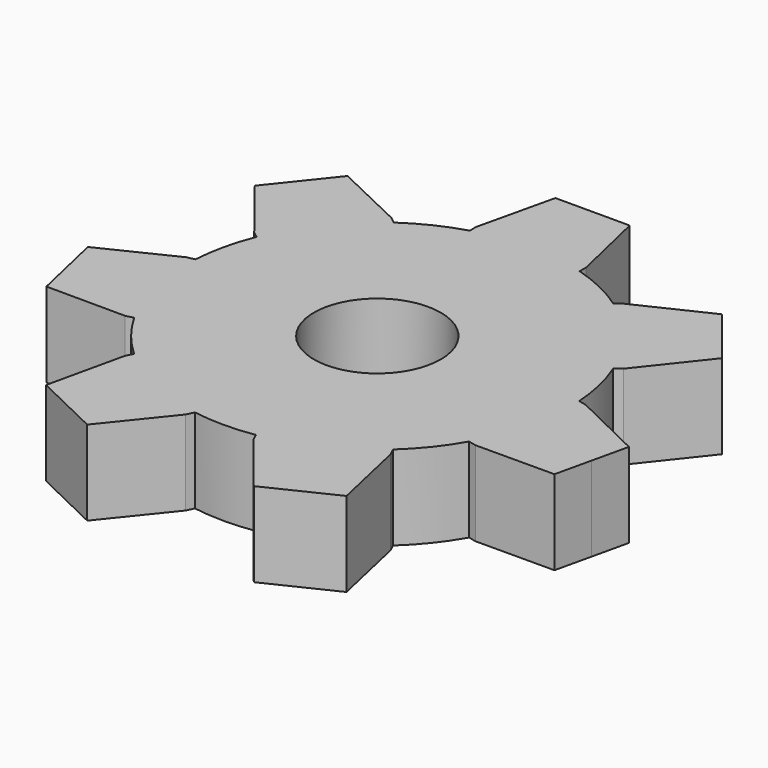
from build123d import *

# Parameters (mm, degrees)
F0_R     = 19.05
F1_DEPTH = 25.4


with BuildPart() as f1:
    # F0 (on Top) → F1 (new body)
    with BuildSketch(Plane.XY):
        with BuildLine():
            Line((-10.182837, -59.196547), (-9.157953, -57.02169))
            ThreePointArc((-9.157953, -57.02169), (-25.057833, -52.033126), (-38.871462, -42.712418))
            Line((-38.871462, -42.712418), (-39.932829, -44.869706))
            Line((-39.932829, -44.869706), (-45.115972, -67.966514))
            Line((-45.115972, -67.966514), (-35.062492, -72.808015))
            Line((-35.062492, -72.808015), (-25.009012, -77.649516))
            Line((-25.009012, -77.649516), (-10.182837, -59.196547))
        make_face()
        with BuildLine():
            Line((-52.630619, -28.947181), (-50.291243, -28.392466))
            ThreePointArc((-50.291243, -28.392466), (-56.30444, -12.851121), (-57.629873, 3.760176))
            Line((-57.629873, 3.760176), (-59.97826, 3.244939))
            Line((-59.97826, 3.244939), (-81.267709, -7.103341))
            Line((-81.267709, -7.103341), (-78.784705, -17.982095))
            Line((-78.784705, -17.982095), (-76.3017, -28.860849))
            Line((-76.3017, -28.860849), (-52.630619, -28.947181))
        make_face()
        with BuildLine():
            ThreePointArc((-53.554201, 21.616864), (-45.152655, 36.008041), (-32.991815, 47.401281))
            Line((-32.991815, 47.401281), (-34.858838, 48.916078))
            Line((-34.858838, 48.916078), (-56.223203, 59.108793))
            Line((-56.223203, 59.108793), (-63.180428, 50.38471))
            Line((-63.180428, 50.38471), (-70.137652, 41.660627))
            Line((-70.137652, 41.660627), (-55.446471, 23.100003))
            Line((-55.446471, 23.100003), (-53.554201, 21.616864))
        make_face()
        with BuildLine():
            ThreePointArc((32.991815, 47.401281), (45.152655, 36.008041), (53.554201, 21.616864))
            Line((53.554201, 21.616864), (55.446471, 23.100003))
            Line((55.446471, 23.100003), (70.137652, 41.660627))
            Line((70.137652, 41.660627), (63.180428, 50.38471))
            Line((63.180428, 50.38471), (56.223203, 59.108793))
            Line((56.223203, 59.108793), (34.858838, 48.916078))
            Line((34.858838, 48.916078), (32.991815, 47.401281))
        make_face()
        with BuildLine():
            ThreePointArc((0, 57.752413), (8.332046, 57.148213), (16.489754, 55.348254))
            Line((16.489754, 55.348254), (16.51, 57.752413))
            Line((16.51, 57.752413), (11.158521, 80.8108))
            Line((11.158521, 80.8108), (0, 80.8108))
            Line((0, 80.8108), (0, 57.752413))
        make_face()
        with BuildLine():
            ThreePointArc((-16.489754, 55.348254), (-8.332046, 57.148213), (0, 57.752413))
            Line((0, 57.752413), (0, 80.8108))
            Line((0, 80.8108), (-11.158521, 80.8108))
            Line((-11.158521, 80.8108), (-16.51, 57.752413))
            Line((-16.51, 57.752413), (-16.489754, 55.348254))
        make_face()
        with BuildLine():
            ThreePointArc((57.629873, 3.760176), (57.72177, 1.881086), (57.752413, 0))
            ThreePointArc((57.752413, 0), (55.855984, -14.678225), (50.291243, -28.392466))
            Line((50.291243, -28.392466), (52.630619, -28.947181))
            Line((52.630619, -28.947181), (76.3017, -28.860849))
            Line((76.3017, -28.860849), (78.784705, -17.982095))
            Line((78.784705, -17.982095), (81.267709, -7.103341))
            Line((81.267709, -7.103341), (59.97826, 3.244939))
            Line((59.97826, 3.244939), (57.629873, 3.760176))
        make_face()
        with BuildLine():
            Line((39.932829, -44.869706), (38.871462, -42.712418))
            ThreePointArc((38.871462, -42.712418), (25.057833, -52.033126), (9.157953, -57.02169))
            Line((9.157953, -57.02169), (10.182837, -59.196547))
            Line((10.182837, -59.196547), (25.009012, -77.649516))
            Line((25.009012, -77.649516), (35.062492, -72.808015))
            Line((35.062492, -72.808015), (45.115972, -67.966514))
            Line((45.115972, -67.966514), (39.932829, -44.869706))
        make_face()
        with BuildLine():
            ThreePointArc((50.291243, -28.392466), (55.855984, -14.678225), (57.752413, 0))
            ThreePointArc((57.752413, 0), (57.72177, 1.881086), (57.629873, 3.760176))
            ThreePointArc((57.629873, 3.760176), (56.30444, 12.851121), (53.554201, 21.616864))
            ThreePointArc((53.554201, 21.616864), (45.152655, 36.008041), (32.991815, 47.401281))
            ThreePointArc((32.991815, 47.401281), (25.057833, 52.033126), (16.489754, 55.348254))
            ThreePointArc((16.489754, 55.348254), (8.332046, 57.148213), (0, 57.752413))
            ThreePointArc((0, 57.752413), (-8.332046, 57.148213), (-16.489754, 55.348254))
            ThreePointArc((-16.489754, 55.348254), (-25.057833, 52.033126), (-32.991815, 47.401281))
            ThreePointArc((-32.991815, 47.401281), (-45.152655, 36.008041), (-53.554201, 21.616864))
            ThreePointArc((-53.554201, 21.616864), (-56.30444, 12.851121), (-57.629873, 3.760176))
            ThreePointArc((-57.629873, 3.760176), (-56.30444, -12.851121), (-50.291243, -28.392466))
            ThreePointArc((-50.291243, -28.392466), (-45.152655, -36.008041), (-38.871462, -42.712418))
            ThreePointArc((-38.871462, -42.712418), (-25.057833, -52.033126), (-9.157953, -57.02169))
            ThreePointArc((-9.157953, -57.02169), (0, -57.752413), (9.157953, -57.02169))
            ThreePointArc((9.157953, -57.02169), (25.057833, -52.033126), (38.871462, -42.712418))
            ThreePointArc((38.871462, -42.712418), (45.152655, -36.008041), (50.291243, -28.392466))
        make_face()
        Circle(F0_R, mode=Mode.SUBTRACT)
    extrude(amount=F1_DEPTH)


solid = f1.part
